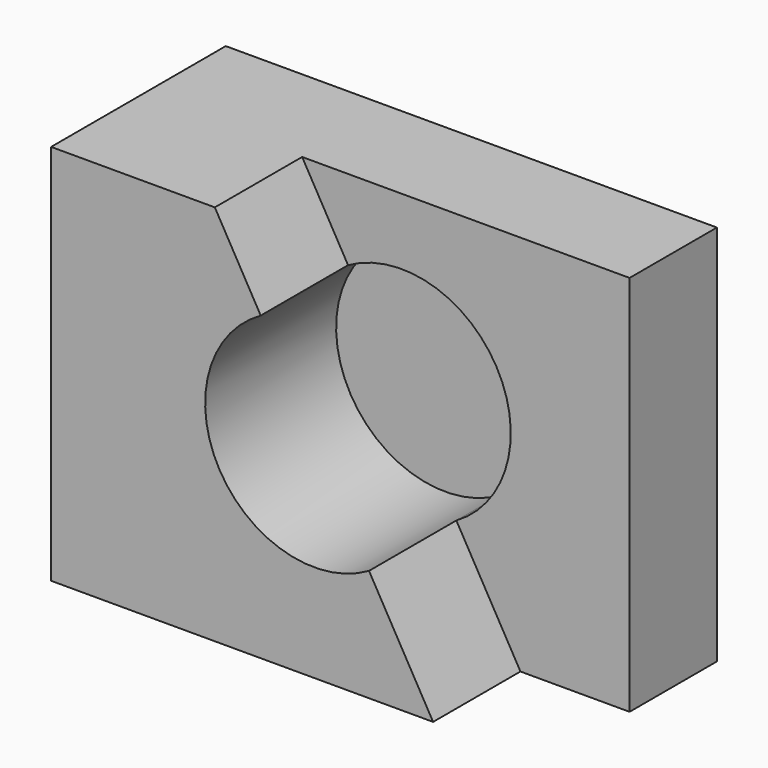
from build123d import *

# Parameters (mm, degrees)
F0_W     = 57.15
F0_H     = 44.45
F1_DEPTH = 25.4
F3_DEPTH = 12.7
F4_DEPTH = 19.05


with BuildPart() as f1:
    # F0 (on Front) → F1 (new body)
    with BuildSketch(Plane.XZ):
        with Locations((28.575, 22.225)):
            Rectangle(F0_W, F0_H)
    extrude(amount=F1_DEPTH)

    # F2 (on face) → F3 (cut)
    with BuildSketch(Plane.XZ.offset(25.4)):
        with BuildLine():
            Line((57.15, 44.45), (19.05, 44.45))
            Line((19.05, 44.45), (24.390971, 35.103302))
            ThreePointArc((24.390971, 35.103302), (41.651297, 30.339378), (36.992666, 13.050335))
            Line((36.992666, 13.050335), (44.45, 0))
            Line((44.45, 0), (57.15, 0))
            Line((57.15, 0), (57.15, 44.45))
        make_face()
    extrude(amount=-F3_DEPTH, mode=Mode.SUBTRACT)

    # F2 (on face) → F4 (cut)
    with BuildSketch(Plane.XZ.offset(25.4)):
        with BuildLine():
            ThreePointArc((36.992666, 13.050335), (41.651297, 30.339378), (24.390971, 35.103302))
            Line((24.390971, 35.103302), (36.992666, 13.050335))
        make_face()
        with BuildLine():
            Line((36.992666, 13.050335), (24.390971, 35.103302))
            ThreePointArc((24.390971, 35.103302), (19.597921, 17.737449), (36.992666, 13.050335))
        make_face()
    extrude(amount=-F4_DEPTH, mode=Mode.SUBTRACT)


solid = f1.part
